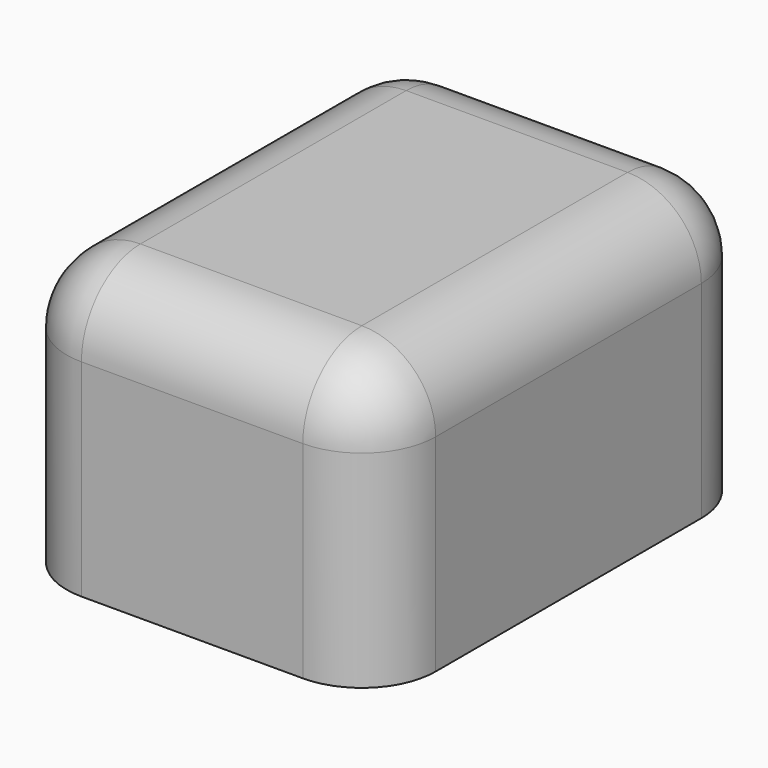
from build123d import *

# Parameters (mm, degrees)
F0_W     = 50
F0_H     = 65
F1_DEPTH = 38
F2_R     = 10
F3_T     = -2
F4_W     = 14
F4_H     = 20
F5_DEPTH = 25
F6_R     = 6


with BuildPart() as f1:
    # F0 (on Top) → F1 (new body)
    with BuildSketch(Plane.XY):
        Rectangle(F0_W, F0_H)
    extrude(amount=F1_DEPTH)

    # F2
    f2_edges = [f1.edges().sort_by_distance(p)[0] for p in [
        (0, 32.5, 38),
        (25, 32.5, 19),
        (25, 0, 38),
        (25, -32.5, 19),
        (0, -32.5, 38),
        (-25, 0, 38),
        (-25, 32.5, 19),
        (-25, -32.5, 19),
    ]]
    fillet(f2_edges, radius=F2_R)

    # F3
    f3_openings = [f1.faces().sort_by_distance(p)[0] for p in [
        (0, 0, 0),
    ]]
    offset(amount=F3_T, openings=f3_openings)

    # F4 (on face) → F5 (cut)
    with BuildSketch(Plane(origin=(0, 32.5, 0), x_dir=(-1, 0, 0), z_dir=(0, 1, 0))):
        with Locations((0, 10)):
            Rectangle(F4_W, F4_H)
    extrude(amount=-F5_DEPTH, mode=Mode.SUBTRACT)

    # F6
    f6_edges = [f1.edges().sort_by_distance(p)[0] for p in [
        (7, 31.5, 20),
        (-7, 31.5, 20),
    ]]
    fillet(f6_edges, radius=F6_R)


solid = f1.part
